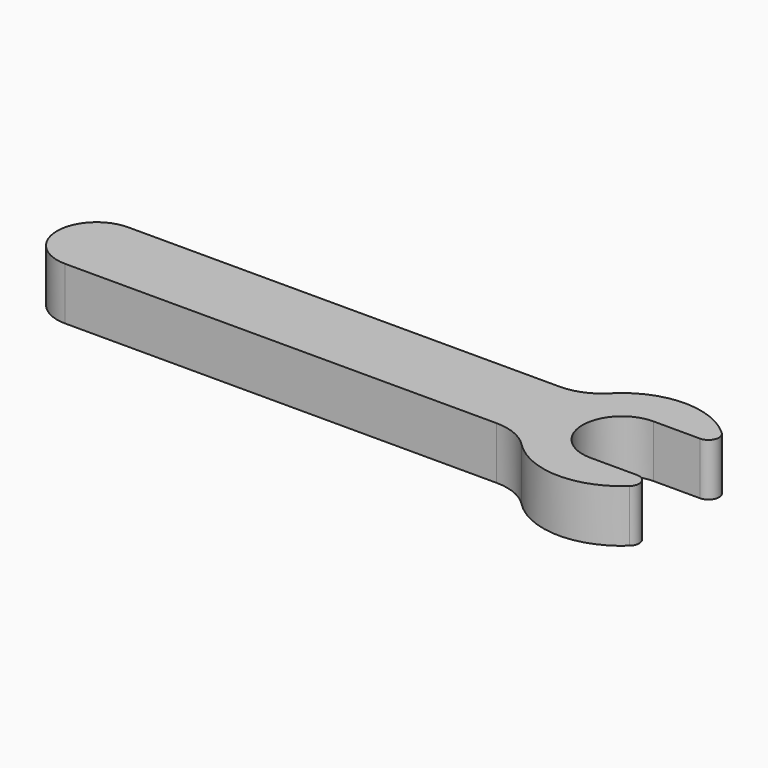
from build123d import *

# Parameters (mm, degrees)
F1_DEPTH = 6.35


with BuildPart() as f1:
    # F0 (on Top) → F1 (new body)
    with BuildSketch(Plane.XY):
        with BuildLine():
            Line((52.175445, 4.7752), (0, 4.7752))
            ThreePointArc((0, 4.7752), (-4.7752, 0), (0, -4.7752))
            Line((0, -4.7752), (52.175445, -4.7752))
            ThreePointArc((52.175445, -4.7752), (54.631508, -5.269412), (56.705267, -6.67512))
            ThreePointArc((56.705267, -6.67512), (63.295562, -9.522806), (70.001999, -6.960577))
            ThreePointArc((70.001999, -6.960577), (70.316497, -5.566537), (69.135066, -4.7625))
            Line((69.135066, -4.7625), (63.5, -4.7625))
            ThreePointArc((63.5, -4.7625), (58.7375, 0), (63.5, 4.7625))
            Line((63.5, 4.7625), (69.135066, 4.7625))
            ThreePointArc((69.135066, 4.7625), (70.316497, 5.566537), (70.001999, 6.960577))
            ThreePointArc((70.001999, 6.960577), (63.295562, 9.522806), (56.705267, 6.67512))
            ThreePointArc((56.705267, 6.67512), (54.631508, 5.269412), (52.175445, 4.7752))
        make_face()
    extrude(amount=F1_DEPTH)


solid = f1.part
